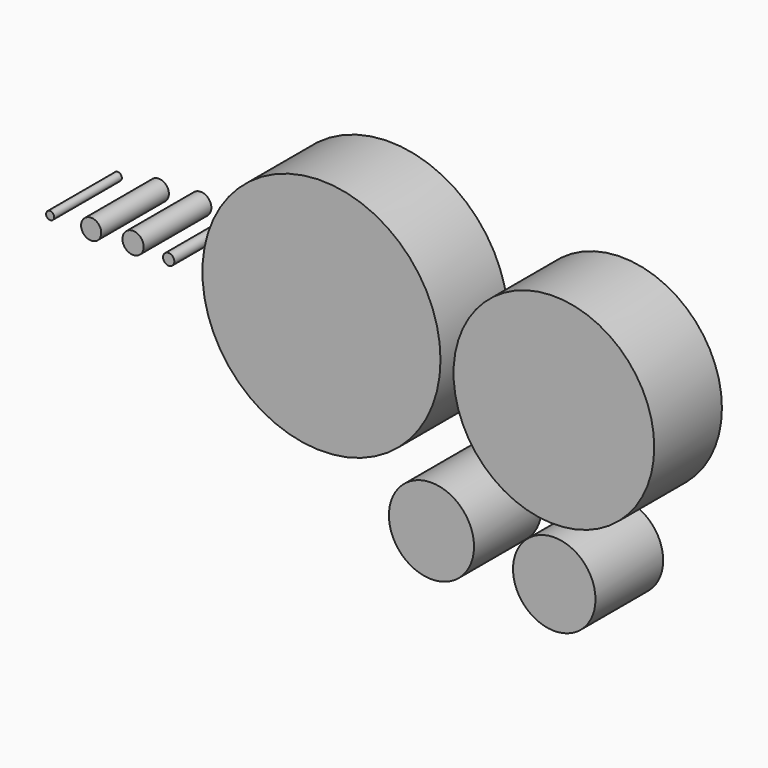
from build123d import *

# Parameters (mm, degrees)
F0_R     = 1.2192
F0_R_2   = 3.02641
F0_R_3   = 3.18897
F0_R_4   = 1.69799
F0_R_5   = 35.74542
F0_R_6   = 30.13456
F0_R_7   = 12.78001
F0_R_8   = 12.3825
F1_DEPTH = 25.4


with BuildPart() as f1:
    # F0 (on Front) → F1 (new body)
    with BuildSketch(Plane.XZ):
        with Locations((-81.468083, 0)):
            Circle(F0_R)
        with Locations((-69.148049, 0.406844)):
            Circle(F0_R_2)
        with Locations((-56.56881, 0.867844)):
            Circle(F0_R_3)
        with Locations((-45.874156, 0)):
            Circle(F0_R_4)
        Circle(F0_R_5)
        with Locations((69.791469, -2.23349)):
            Circle(F0_R_6)
        with Locations((33.029166, -46.136162)):
            Circle(F0_R_7)
        with Locations((69.900196, -48.210488)):
            Circle(F0_R_8)
    extrude(amount=F1_DEPTH)


solid = f1.part
